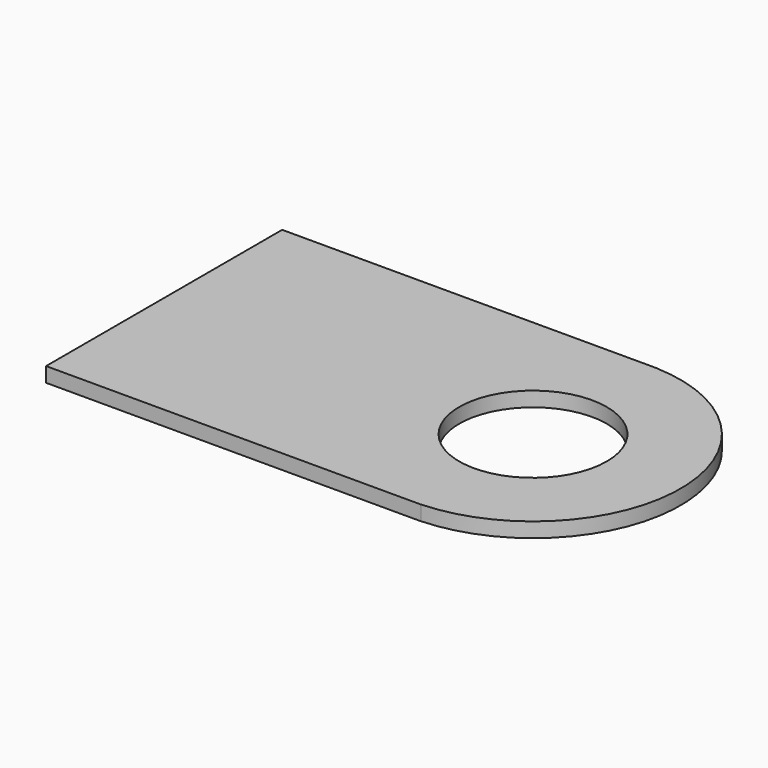
from build123d import *

# Parameters (mm, degrees)
CYLINDER008_R     = 0.5
CYLINDER008_DEPTH = 0.1
BOX005_W          = 2.54
BOX005_H          = 2
BOX005_DEPTH      = 0.1
CYLINDER007_R     = 0.5
CYLINDER007_DEPTH = 0.1
CYLINDER006_R     = 1
CYLINDER006_DEPTH = 0.1


with BuildPart() as cylinder008:
    # Cylinder008 → Cylinder008 (new body)
    with BuildSketch(Plane.XY.offset(1)):
        Circle(CYLINDER008_R)
    extrude(amount=CYLINDER008_DEPTH)


with BuildPart() as cut006:
    # Box005 → Box005 (new body)
    with BuildSketch(Plane(origin=(-2.5, -1, 1), x_dir=(1, 0, 0), z_dir=(0, 0, 1))):
        with Locations((1.27, 1)):
            Rectangle(BOX005_W, BOX005_H)
    extrude(amount=BOX005_DEPTH)

    # Cut006: cut Cylinder008
    add(cylinder008.part, mode=Mode.SUBTRACT)


with BuildPart() as cylinder007:
    # Cylinder007 → Cylinder007 (new body)
    with BuildSketch(Plane.XY.offset(1)):
        Circle(CYLINDER007_R)
    extrude(amount=CYLINDER007_DEPTH)


with BuildPart() as fusion002:
    # Cylinder006 → Cylinder006 (new body)
    with BuildSketch(Plane.XY.offset(1)):
        Circle(CYLINDER006_R)
    extrude(amount=CYLINDER006_DEPTH)

    # Cut005: cut Cylinder007
    add(cylinder007.part, mode=Mode.SUBTRACT)

    # Fusion002: union Cut006
    add(cut006.part)


with BuildPart() as fusion002_1:
    # Fusion002 placement: moved
    add(fusion002.part.moved(Location((0, -5.08, 5.5))))


solid = fusion002_1.part
